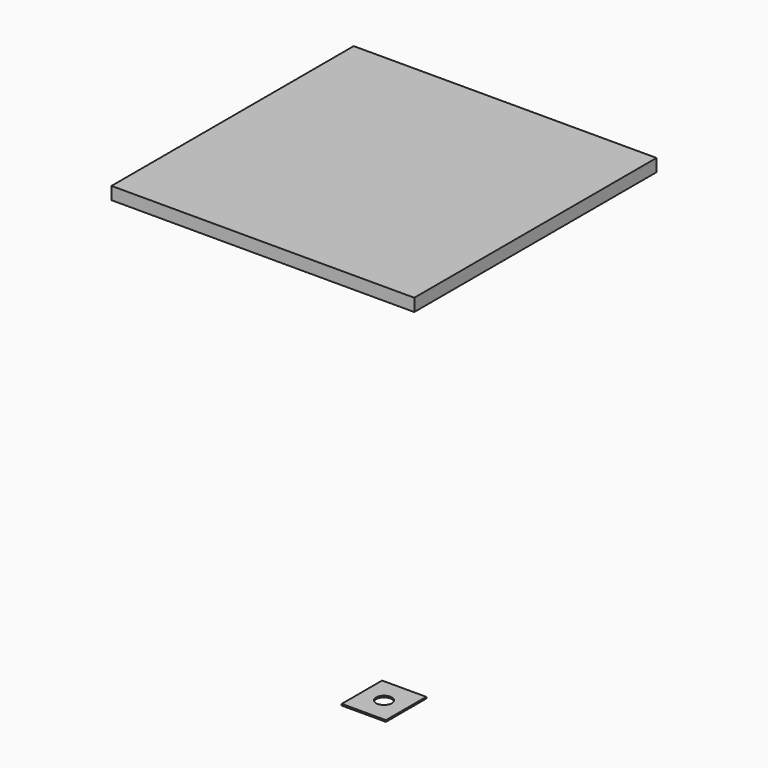
from build123d import *

# Parameters (mm, degrees)
F0_W     = 609.6
F0_H     = 609.6
F6_DEPTH = 25.4
F5_W     = 88.9
F5_H     = 101.6
F5_R     = 15.875
F7_DEPTH = 3.175


with BuildPart() as f6:
    # F0 (on Top) → F6 (new body)
    with BuildSketch(Plane.XY):
        Rectangle(F0_W, F0_H)
    extrude(amount=F6_DEPTH)


with BuildPart() as f7:
    # F5 (on offset) → F7 (new body)
    with BuildSketch(Plane.XY.offset(-914.4)):
        Rectangle(F5_W, F5_H)
        Circle(F5_R, mode=Mode.SUBTRACT)
    extrude(amount=F7_DEPTH)


solid = Compound([f6.part, f7.part])
